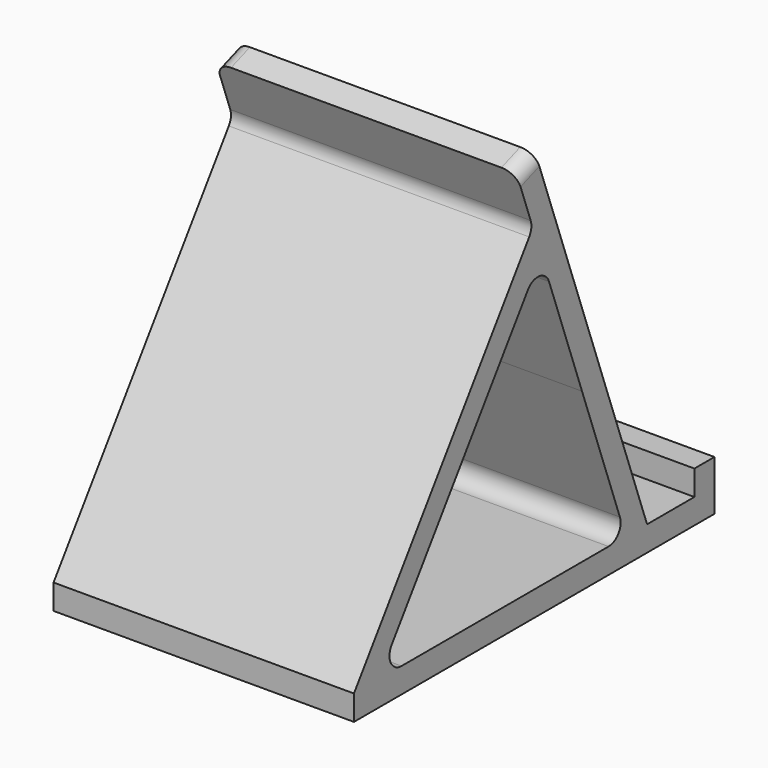
from build123d import *

# Parameters (mm, degrees)
F1_DEPTH = 60
F2_R     = 3
F3_R     = 3
F5_W     = 15
F5_H     = 8
F6_DEPTH = 25


with BuildPart() as f1:
    # F0 (on Right) → F1 (new body)
    with BuildSketch(Plane.YZ):
        Polygon((0, 0), (90, 0), (90, 10), (85, 10), (85, 5), (73.1801488287, 5), (45.2599553973, 81.7101009996), (40.5614915158, 80), (44.6500255673, 68.7668450149), (0, 5), align=None)
        Polygon((56.9401520578, 35), (67.8592590858, 5), (6.1038729438, 5), (27.583580996, 35.6762022401), (46.7376730664, 63.0310806514), align=None, mode=Mode.SUBTRACT)
    extrude(amount=F1_DEPTH)

    # F2
    f2_edges = [f1.edges().sort_by_distance(p)[0] for p in [
        (30, 6.103873, 5),
        (30, 67.859259, 5),
        (30, 46.737673, 63.031081),
        (30, 44.650026, 68.766845),
    ]]
    fillet(f2_edges, radius=F2_R)

    # F3
    f3_edges = [f1.edges().sort_by_distance(p)[0] for p in [
        (60, 42.910723, 80.85505),
        (0, 42.910723, 80.85505),
    ]]
    fillet(f3_edges, radius=F3_R)

    # F5 (on offset) → F6 (cut)
    with BuildSketch(Plane.XY.offset(5)):
        with Locations((30, 77.1801488287)):
            Rectangle(F5_W, F5_H)
    extrude(amount=-F6_DEPTH, mode=Mode.SUBTRACT)


solid = f1.part
